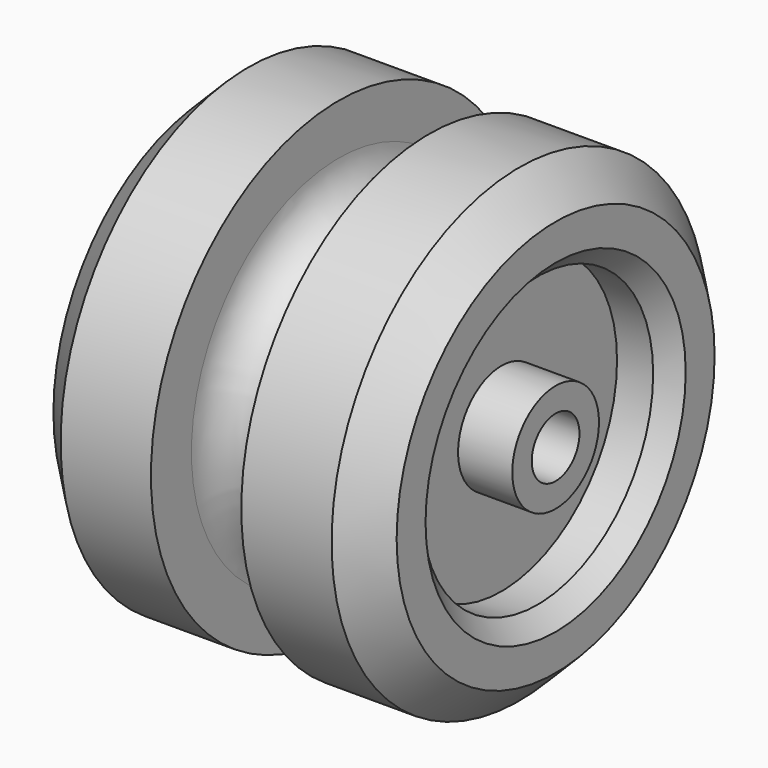
from build123d import *

# Parameters (mm, degrees)
F2_SIZE = 1
F3_SIZE = 2
F4_R    = 2.2
F6_D    = 3.3


with BuildPart() as f1:
    # F0 (on Top) → F1 (revolve)
    with BuildSketch(Plane.XY):
        Polygon((-20.039994, 3), (-20.039994, 0), (-1.039994, 0), (-1.039994, 3), (-4.039994, 3), (-4.039994, 8), (-1.039994, 8), (-1.039994, 13), (-8.039994, 13), (-8.039994, 8), (-13.039994, 8), (-13.039994, 13), (-20.039994, 13), (-20.039994, 8), (-17.039994, 8), (-17.039994, 3), align=None)
    revolve(axis=Axis((-10.68385, 0, 0), (1, 0, 0)))

    # F2
    f2_edges = [f1.edges().sort_by_distance(p)[0] for p in [
        (-1.039994, -8, 0),
        (-20.039994, -8, 0),
    ]]
    chamfer(f2_edges, length=F2_SIZE)

    # F3
    f3_edges = [f1.edges().sort_by_distance(p)[0] for p in [
        (-20.039994, -13, 0),
        (-1.039994, -13, 0),
    ]]
    chamfer(f3_edges, length=F3_SIZE)

    # F4
    f4_edges = [f1.edges().sort_by_distance(p)[0] for p in [
        (-13.039994, -8, 0),
        (-8.039994, -8, 0),
    ]]
    fillet(f4_edges, radius=F4_R)

    # F6 (through all)
    with Locations(Plane(origin=(-20.039994, 0, 0), x_dir=(0, -1, 0), z_dir=(-1, 0, 0))):
        with Locations((0, 0)):
            Hole(F6_D / 2)


solid = f1.part
